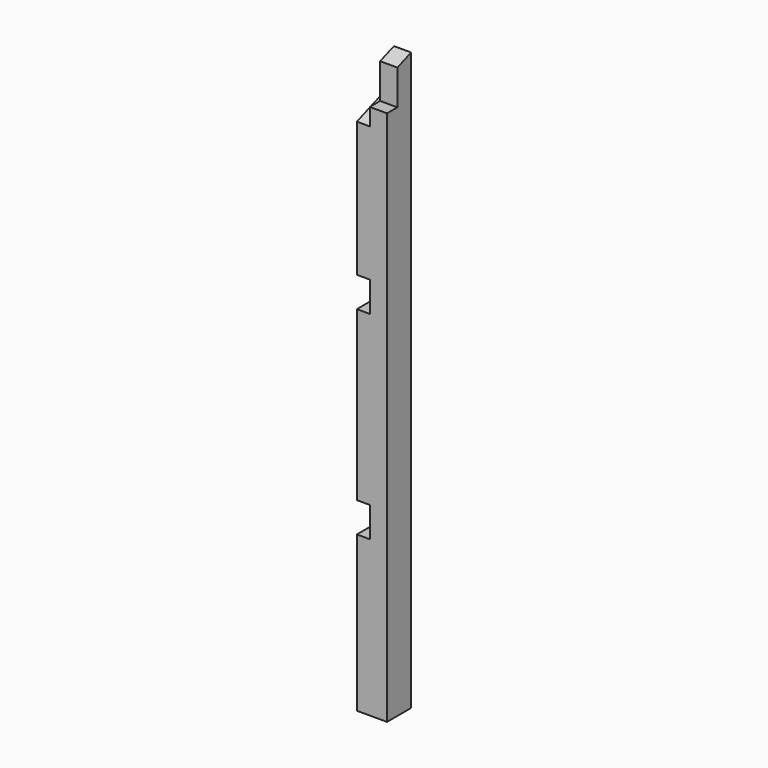
from build123d import *

# Parameters (mm, degrees)
BOX002_W        = 88.9
BOX002_H        = 88.9
BOX002_DEPTH    = 2438.4
SKETCH_W        = 38.1
SKETCH_H        = 88.9
POCKET_DEPTH    = 88.9010000032
POCKET006_DEPTH = 88.901
POCKET012_DEPTH = 38.1
SKETCH017_W     = 38.1
SKETCH017_H     = 111.76
POCKET014_DEPTH = 88.901
SKETCH034_W     = 88.9
SKETCH034_H     = 88.9
POCKET024_DEPTH = 38.1


with BuildPart() as obj1:
    # Box002 → Box002 (new body)
    with BuildSketch(Plane(origin=(1435.1, 0, 0), x_dir=(1, 0, 0), z_dir=(0, 0, 1))):
        with Locations((44.45, 44.45)):
            Rectangle(BOX002_W, BOX002_H)
    extrude(amount=BOX002_DEPTH)

    # Sketch → Pocket (cut, through all)
    with BuildSketch(Plane(origin=(1435.1, 0, 0), x_dir=(1, 0, 0), z_dir=(0, -1, 0))):
        with Locations((69.85, 501.65)):
            Rectangle(SKETCH_W, SKETCH_H)
    extrude(amount=-POCKET_DEPTH, mode=Mode.SUBTRACT)


with BuildPart() as pocket024:
    # Part__Mirroring001: instance of obj1
    add(obj1.part.mirror(Plane(origin=(762, 0, 0), x_dir=(0, -1, 0), z_dir=(1, 0, 0))))

    # Sketch007 → Pocket006 (cut, through all)
    with BuildSketch(Plane.YZ.offset(88.9)):
        Polygon((0, 1667.24584), (0, 2438.4), (88.9, 2438.4), (88.9, 1699.6027938263), align=None)
    extrude(amount=-POCKET006_DEPTH, mode=Mode.SUBTRACT)

    # Sketch013 → Pocket012 (cut)
    with BuildSketch(Plane(origin=(0, 0, 0), x_dir=(0, -1, 0), z_dir=(-1, 0, 0))):
        Polygon((-88.9, 1699.6109218263), (-88.9, 1559.9109218263), (0, 1527.553968), (0, 1667.253968), align=None)
    extrude(amount=-POCKET012_DEPTH, mode=Mode.SUBTRACT)

    # Sketch017 → Pocket014 (cut, through all)
    with BuildSketch(Plane.YZ.offset(88.9)):
        with Locations((19.05, 1633.855)):
            Rectangle(SKETCH017_W, SKETCH017_H)
    extrude(amount=-POCKET014_DEPTH, mode=Mode.SUBTRACT)

    # Sketch034 → Pocket024 (cut)
    with BuildSketch(Plane(origin=(0, 0, 0), x_dir=(0, -1, 0), z_dir=(-1, 0, 0))):
        with Locations((-44.45, 1085.85)):
            Rectangle(SKETCH034_W, SKETCH034_H)
    extrude(amount=-POCKET024_DEPTH, mode=Mode.SUBTRACT)


solid = pocket024.part
